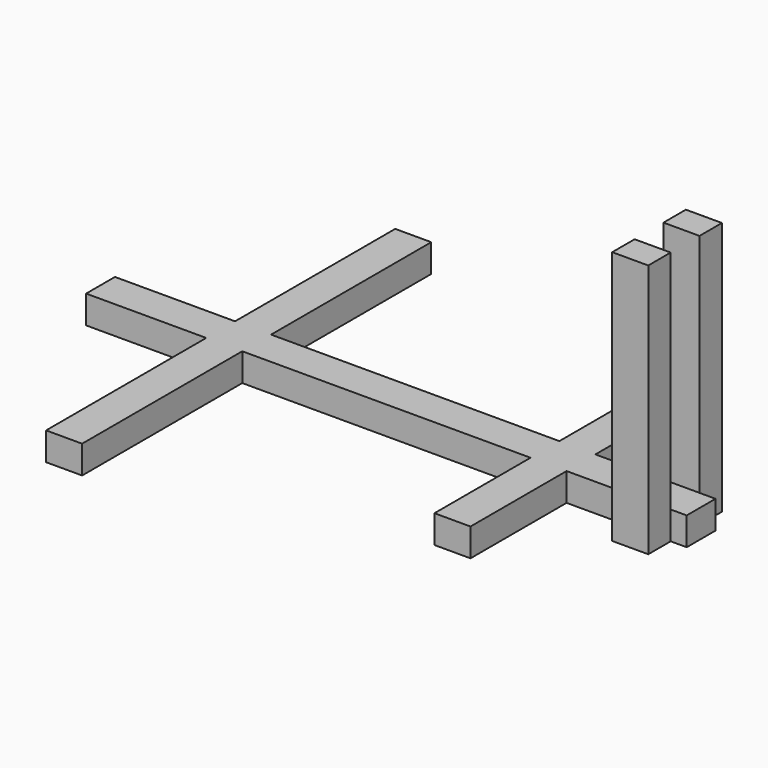
from build123d import *

# Parameters (mm, degrees)
F0_W          = 750
F0_H          = 35
F1_DEPTH      = 22.5
F2_W          = 45
F2_H          = 150
F2_H_2        = 250
F3_DEPTH      = 17.5
F4_W          = 45
F4_H          = 35
F5_DEPTH      = 300
F5_DEPTH_BACK = 17.5


with BuildPart() as f1:
    # F0 (on Front) → F1 (new body, symmetric)
    with BuildSketch(Plane.XZ):
        Rectangle(F0_W, F0_H)
    extrude(amount=F1_DEPTH, both=True)

    # F2 (on Top) → F3 (join, symmetric)
    with BuildSketch(Plane.XY):
        with Locations((202.5, 97.5)):
            Rectangle(F2_W, F2_H)
        with Locations((202.5, -97.5)):
            Rectangle(F2_W, F2_H)
        with Locations((-202.5, 147.5)):
            Rectangle(F2_W, F2_H_2)
        with Locations((-202.5, -147.5)):
            Rectangle(F2_W, F2_H_2)
    extrude(amount=F3_DEPTH, both=True)

    # F4 (on Top) → F5 (join, two sides)
    with BuildSketch(Plane.XY) as f5_sk:
        with Locations((332.5, 40)):
            Rectangle(F4_W, F4_H)
        with Locations((332.5, -40)):
            Rectangle(F4_W, F4_H)
    extrude(amount=F5_DEPTH)
    extrude(f5_sk.sketch, amount=-F5_DEPTH_BACK)


solid = f1.part
